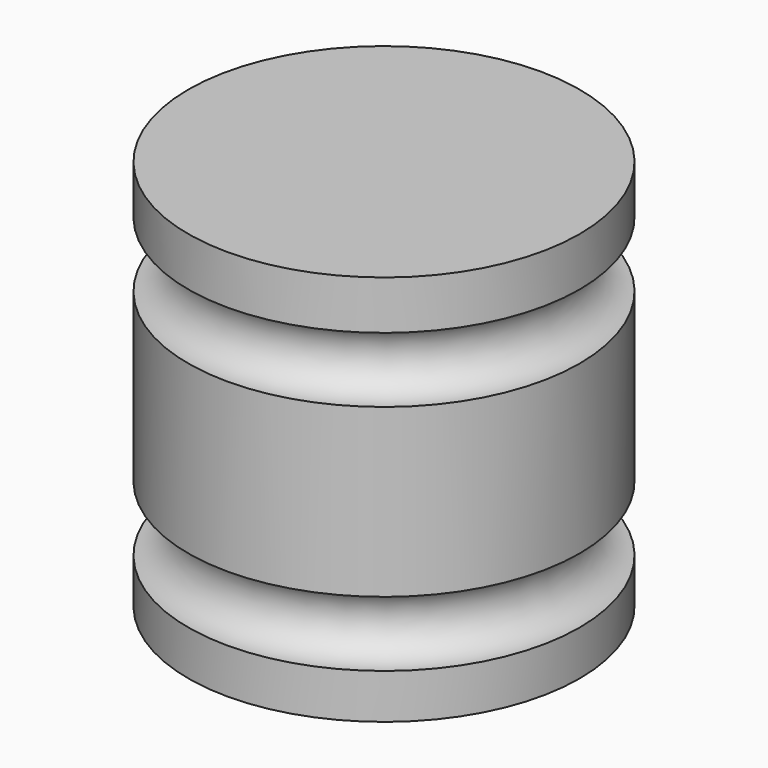
from build123d import *


with BuildPart() as f1:
    # F0 (on Front) → F1 (revolve)
    with BuildSketch(Plane.XZ):
        with BuildLine():
            Line((-38.1, 0), (0, 0))
            Line((0, 0), (0, 8.735418))
            ThreePointArc((0, 8.735418), (-6.35, 15.085418), (0, 21.435418))
            Line((0, 21.435418), (0, 53.991671))
            ThreePointArc((0, 53.991671), (-6.35, 60.341671), (0, 66.691671))
            Line((0, 66.691671), (0, 76.190904))
            Line((0, 76.190904), (-38.1, 76.190904))
            Line((-38.1, 76.190904), (-38.1, 0))
        make_face()
    revolve(axis=Axis((-38.1, 0, 38.095452), (0, 0, 1)))


solid = f1.part
